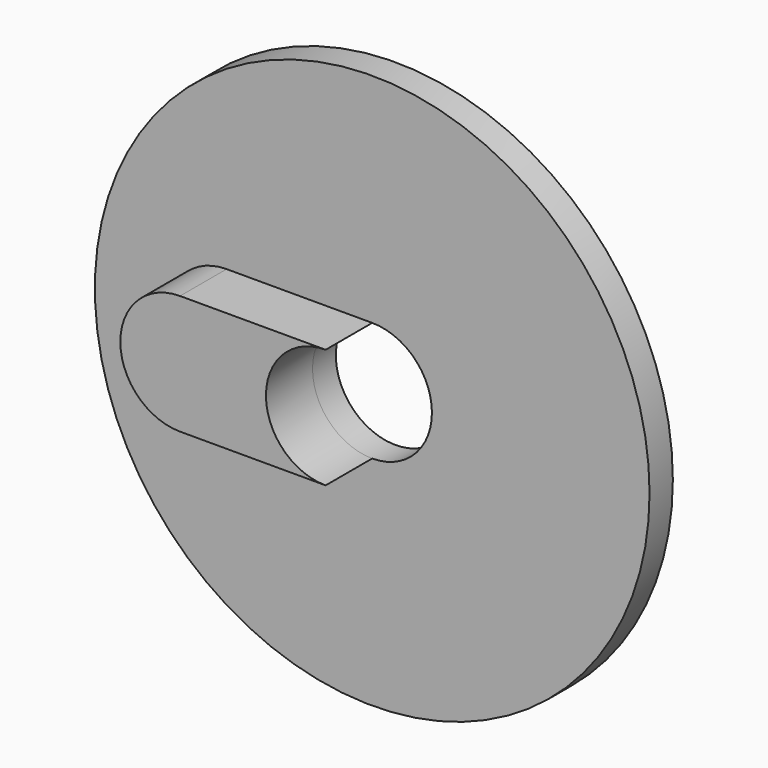
from build123d import *

# Parameters (mm, degrees)
F0_R     = 19.05
F0_R_2   = 4.1
F1_DEPTH = 2
F3_DEPTH = 4


with BuildPart() as f1:
    # F0 (on Front) → F1 (new body)
    with BuildSketch(Plane.XZ):
        Circle(F0_R)
        Circle(F0_R_2, mode=Mode.SUBTRACT)
    extrude(amount=F1_DEPTH)

    # F2 (on face) → F3 (join)
    with BuildSketch(Plane.XZ.offset(2)):
        with BuildLine():
            Line((-10, -4.1), (0, -4.1))
            ThreePointArc((0, -4.1), (-4.1, 0), (0, 4.1))
            Line((0, 4.1), (-10, 4.1))
            ThreePointArc((-10, 4.1), (-14.1, 0), (-10, -4.1))
        make_face()
    extrude(amount=F3_DEPTH)


solid = f1.part
